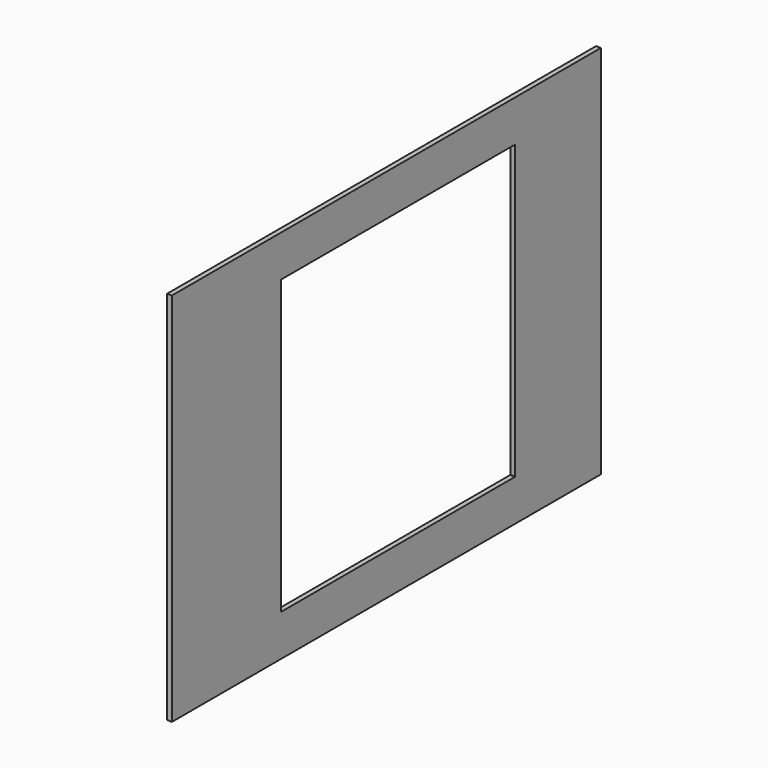
from build123d import *

# Parameters (mm, degrees)
F0_W     = 1397
F0_H     = 977.9
F1_DEPTH = 6.35
F2_W     = 762
F2_H     = 762
F3_DEPTH = 12.701


with BuildPart() as f1:
    # F0 (on Right) → F1 (new body, symmetric)
    with BuildSketch(Plane.YZ):
        Rectangle(F0_W, F0_H)
    extrude(amount=F1_DEPTH, both=True)

    # F2 (on face) → F3 (cut, through all)
    with BuildSketch(Plane.YZ.offset(6.35)):
        with Locations((38.1, 0)):
            Rectangle(F2_W, F2_H)
    extrude(amount=-F3_DEPTH, mode=Mode.SUBTRACT)


solid = f1.part
